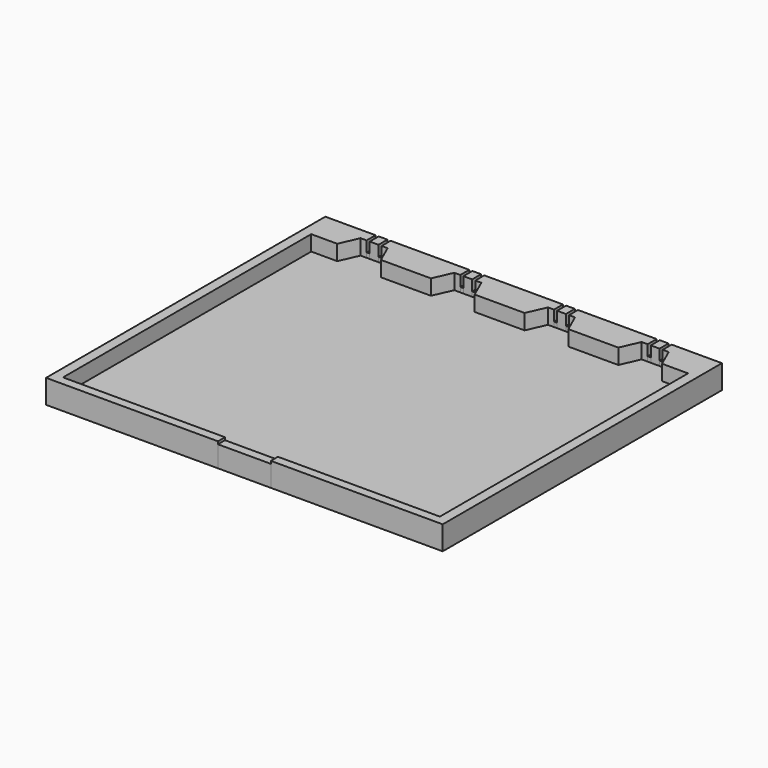
from build123d import *

# Parameters (mm, degrees)
F0_W     = 2.1
F0_H     = 2.693116
F1_DEPTH = 5.715
F2_DEPTH = 2.032
F0_W_2   = 0.75
F3_DEPTH = 3.175
F0_W_3   = 12.7
F0_H_2   = 2.12
F4_DEPTH = 5.08


with BuildPart() as f1:
    # F0 (on Top) → F1 (new body)
    with BuildSketch(Plane.XY):
        Polygon((16.5, 37.25), (28.5, 37.25), (30.5, 41.756884), (31.95, 41.756884), (31.95, 44.45), (13.05, 44.45), (13.05, 41.756884), (14.5, 41.756884), align=None)
        Polygon((-6, 37.25), (6, 37.25), (8, 41.756884), (9.45, 41.756884), (9.45, 44.45), (-9.45, 44.45), (-9.45, 41.756884), (-8, 41.756884), align=None)
        Polygon((-30.5, 41.756884), (-28.5, 37.25), (-16.5, 37.25), (-14.5, 41.756884), (-13.05, 41.756884), (-13.05, 44.45), (-31.95, 44.45), (-31.95, 41.756884), align=None)
        Polygon((45.25, 37.25), (45.25, -37.25), (6.35, -37.25), (6.35, -39.37), (47.625, -39.37), (47.625, 44.45), (35.55, 44.45), (35.55, 41.756884), (37, 41.756884), (39, 37.25), align=None)
        Polygon((-6.35, -39.37), (-6.35, -37.25), (-45.25, -37.25), (-45.25, 37.25), (-39, 37.25), (-37, 41.756884), (-35.55, 41.756884), (-35.55, 44.45), (-47.625, 44.45), (-47.625, -39.37), align=None)
        with Locations((-33.75, 43.103442)):
            Rectangle(F0_W, F0_H)
        with Locations((-11.25, 43.103442)):
            Rectangle(F0_W, F0_H)
        with Locations((11.25, 43.103442)):
            Rectangle(F0_W, F0_H)
        with Locations((33.75, 43.103442)):
            Rectangle(F0_W, F0_H)
    extrude(amount=F1_DEPTH)


with BuildPart() as f2:
    # F0 (on Top) → F2 (new body)
    with BuildSketch(Plane.XY):
        Polygon((6.35, -37.25), (45.25, -37.25), (45.25, 37.25), (39, 37.25), (28.5, 37.25), (16.5, 37.25), (6, 37.25), (-6, 37.25), (-16.5, 37.25), (-28.5, 37.25), (-39, 37.25), (-45.25, 37.25), (-45.25, -37.25), (-6.35, -37.25), align=None)
        Polygon((6, 37.25), (16.5, 37.25), (14.5, 41.756884), (13.05, 41.756884), (12.3, 41.756884), (10.2, 41.756884), (9.45, 41.756884), (8, 41.756884), align=None)
        Polygon((-37, 41.756884), (-39, 37.25), (-28.5, 37.25), (-30.5, 41.756884), (-31.95, 41.756884), (-32.7, 41.756884), (-34.8, 41.756884), (-35.55, 41.756884), align=None)
        Polygon((28.5, 37.25), (39, 37.25), (37, 41.756884), (35.55, 41.756884), (34.8, 41.756884), (32.7, 41.756884), (31.95, 41.756884), (30.5, 41.756884), align=None)
        Polygon((-16.5, 37.25), (-6, 37.25), (-8, 41.756884), (-9.45, 41.756884), (-10.2, 41.756884), (-12.3, 41.756884), (-13.05, 41.756884), (-14.5, 41.756884), align=None)
    extrude(amount=F2_DEPTH)


with BuildPart() as f3:
    # F0 (on Top) → F3 (new body)
    with BuildSketch(Plane.XY):
        with Locations((-32.325, 43.103442)):
            Rectangle(F0_W_2, F0_H)
        with Locations((-9.825, 43.103442)):
            Rectangle(F0_W_2, F0_H)
        with Locations((9.825, 43.103442)):
            Rectangle(F0_W_2, F0_H)
        with Locations((35.175, 43.103442)):
            Rectangle(F0_W_2, F0_H)
        with Locations((12.675, 43.103442)):
            Rectangle(F0_W_2, F0_H)
        with Locations((-12.675, 43.103442)):
            Rectangle(F0_W_2, F0_H)
        with Locations((-35.175, 43.103442)):
            Rectangle(F0_W_2, F0_H)
        with Locations((32.325, 43.103442)):
            Rectangle(F0_W_2, F0_H)
    extrude(amount=F3_DEPTH)


with BuildPart() as f4:
    # F0 (on Top) → F4 (new body)
    with BuildSketch(Plane.XY):
        with Locations((0, -38.31)):
            Rectangle(F0_W_3, F0_H_2)
    extrude(amount=F4_DEPTH)


solid = Compound([f1.part, f2.part, f3.part, f4.part])
